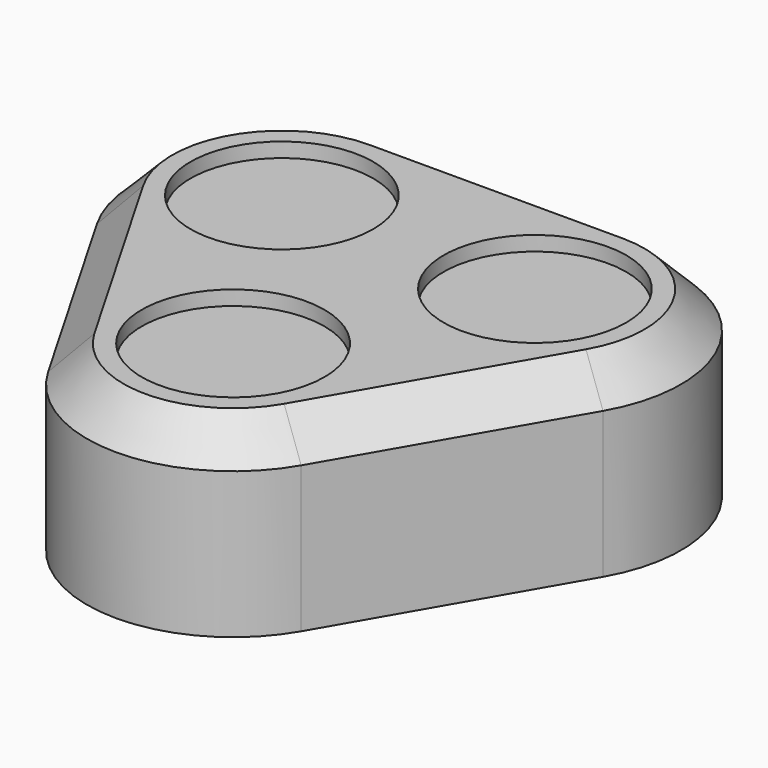
from build123d import *

# Parameters (mm, degrees)
F1_DEPTH = 25
F2_R     = 12.5
F3_DEPTH = 2
F4_SIZE  = 5


with BuildPart() as f1:
    # F0 (on Top) → F1 (new body)
    with BuildSketch(Plane.XY):
        with BuildLine():
            Line((17.320508, 30), (-17.320508, 30))
            ThreePointArc((-17.320508, 30), (-34.641016, 20), (-34.641016, 0))
            Line((-34.641016, 0), (-17.320508, -30))
            ThreePointArc((-17.320508, -30), (0, -40), (17.320508, -30))
            Line((17.320508, -30), (34.641016, 0))
            ThreePointArc((34.641016, 0), (34.641016, 20), (17.320508, 30))
        make_face()
    extrude(amount=F1_DEPTH)

    # F2 (on face) → F3 (cut)
    with BuildSketch(Plane.XY.offset(25)):
        with Locations((-17.320508, 10)):
            Circle(F2_R)
        with Locations((0, -20)):
            Circle(F2_R)
        with Locations((17.320508, 10)):
            Circle(F2_R)
    extrude(amount=-F3_DEPTH, mode=Mode.SUBTRACT)

    # F4
    f4_edges = [f1.edges().sort_by_distance(p)[0] for p in [
        (25.980762, -15, 25),
    ]]
    chamfer(f4_edges, length=F4_SIZE)


solid = f1.part
